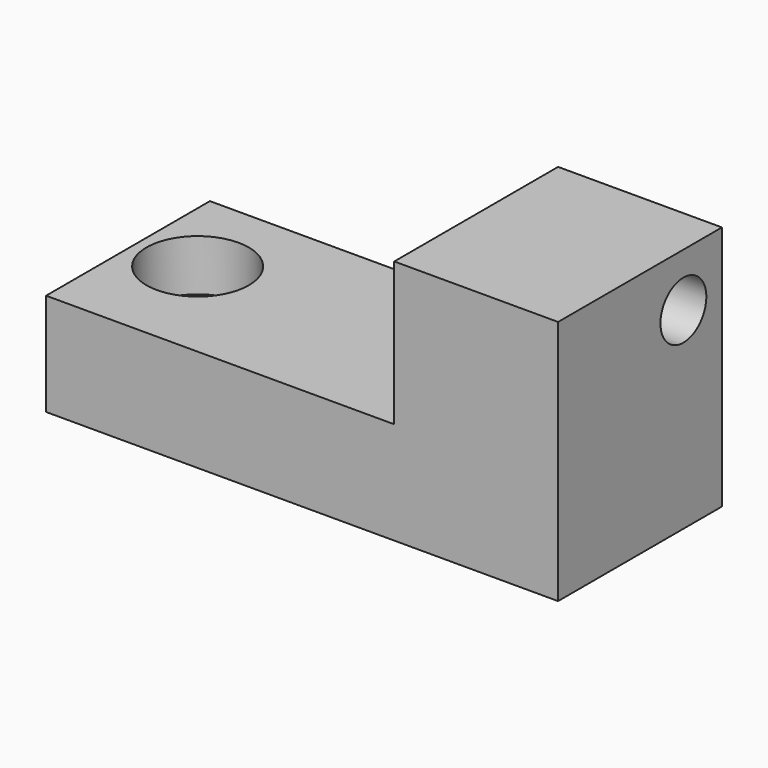
from build123d import *

# Parameters (mm, degrees)
F0_W     = 25
F0_H     = 10
F1_DEPTH = 5
F2_R     = 1.4
F3_DEPTH = 25
F2_W     = 8
F2_H     = 10
F4_DEPTH = 7
F5_R     = 1.4
F6_DEPTH = 25
F2_R_2   = 2.5
F7_DEPTH = 2.5


with BuildPart() as f1:
    # F0 (on Top) → F1 (new body)
    with BuildSketch(Plane.XY):
        Rectangle(F0_W, F0_H)
    extrude(amount=F1_DEPTH)

    # F2 (on face) → F3 (cut)
    with BuildSketch(Plane.XY.offset(5)):
        with Locations((-9.5, 0.5)):
            Circle(F2_R)
    extrude(amount=-F3_DEPTH, mode=Mode.SUBTRACT)

    # F2 (on face) → F4 (join)
    with BuildSketch(Plane.XY.offset(5)):
        with Locations((8.5, 0)):
            Rectangle(F2_W, F2_H)
    extrude(amount=F4_DEPTH)

    # F5 (on face) → F6 (cut)
    with BuildSketch(Plane(origin=(4.5, 0, 0), x_dir=(0, -1, 0), z_dir=(-1, 0, 0))):
        with Locations((-2.647824, 9.4)):
            Circle(F5_R)
    extrude(amount=-F6_DEPTH, mode=Mode.SUBTRACT)

    # F2 (on face) → F7 (cut)
    with BuildSketch(Plane.XY.offset(5)):
        with Locations((-9.5, 0.5)):
            Circle(F2_R_2)
        with Locations((-9.5, 0.5)):
            Circle(F2_R, mode=Mode.SUBTRACT)
    extrude(amount=-F7_DEPTH, mode=Mode.SUBTRACT)


solid = f1.part
